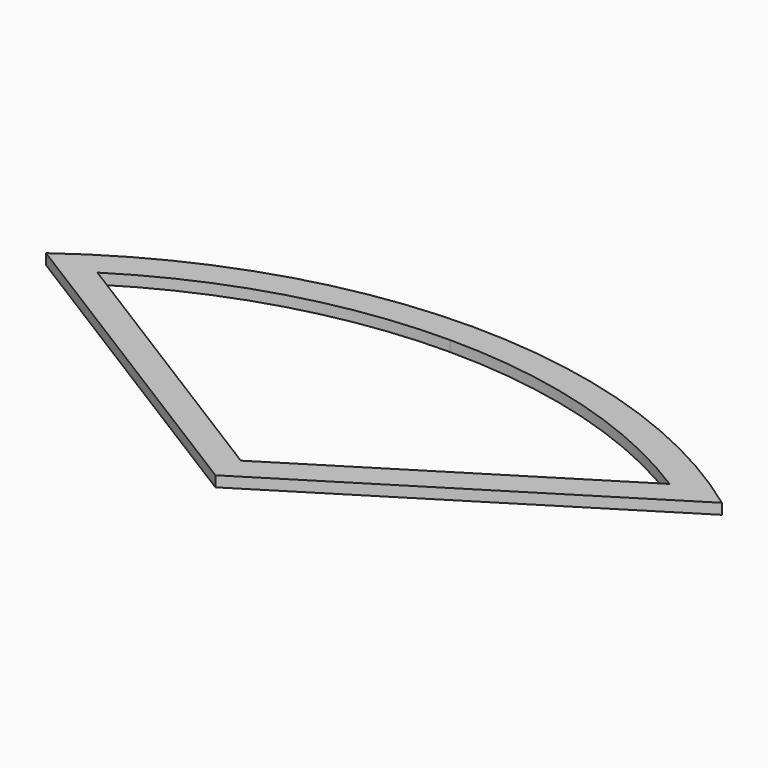
from build123d import *

# Parameters (mm, degrees)
F1_DEPTH = 2.032
F3_DEPTH = 25.4


with BuildPart() as f1:
    # F0 (on Top) → F1 (new body)
    with BuildSketch(Plane.XY):
        with BuildLine():
            Line((-64.659053, 40.319312), (0, 0))
            Line((0, 0), (0, 61.54614))
            ThreePointArc((0, 61.54614), (-34.02709, 56.103675), (-64.659053, 40.319312))
        make_face()
        with BuildLine():
            Line((0, 61.54614), (0, 0))
            Line((0, 0), (64.659053, 40.319312))
            ThreePointArc((64.659053, 40.319312), (34.02709, 56.103675), (0, 61.54614))
        make_face()
    extrude(amount=F1_DEPTH)

    # F2 (on face) → F3 (cut)
    with BuildSketch(Plane.XY.offset(2.032)):
        with BuildLine():
            Line((-54.736852, 40.197955), (0, 6.065809))
            Line((0, 6.065809), (0, 56.084065))
            ThreePointArc((0, 56.084065), (-28.49777, 52.032252), (-54.736852, 40.197955))
        make_face()
        with BuildLine():
            Line((0, 56.084065), (0, 6.065809))
            Line((0, 6.065809), (54.736852, 40.197955))
            ThreePointArc((54.736852, 40.197955), (28.49777, 52.032252), (0, 56.084065))
        make_face()
    extrude(amount=-F3_DEPTH, mode=Mode.SUBTRACT)


solid = f1.part
